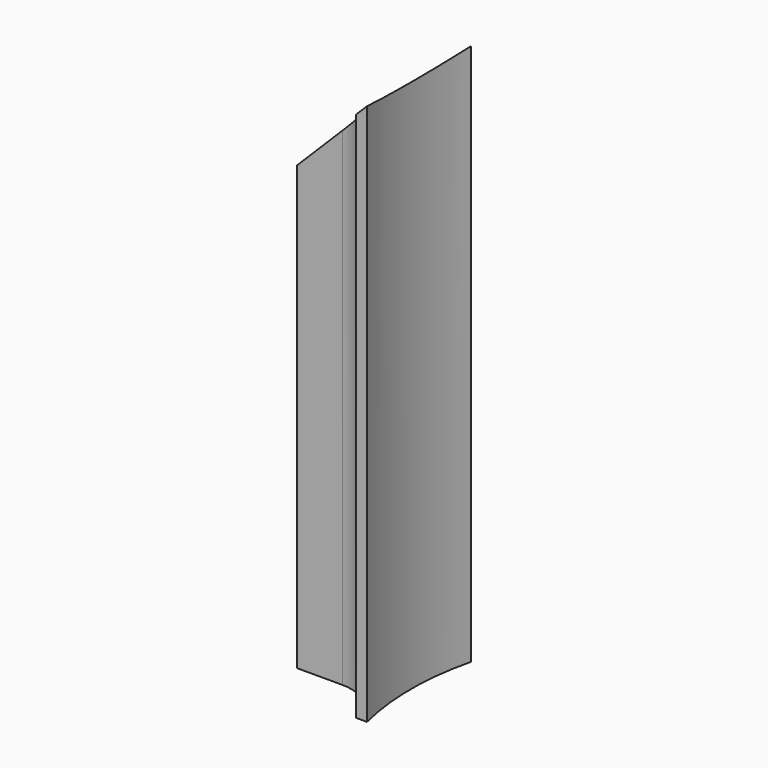
from build123d import *

# Parameters (mm, degrees)
PAD003_DEPTH            = 50
FILLET002_R             = 4
POCKET002_DEPTH         = 8.601
POCKET002_DEPTH_BACK    = 3.401
BODY004_PLACEMENT_ANGLE = 180


with BuildPart() as part:
    # Sketch006 → Pad003 (new body)
    with BuildSketch(Plane.XY):
        with BuildLine():
            ThreePointArc((24.269322199, -6), (25, 0), (24.269322199, 6))
            Line((24.269322199, 6), (25.2982212813, 6))
            ThreePointArc((25.8696733648, 2.6), (25.6403658443, 4.3094824946), (25.2982212813, 6))
            Line((25.8696733648, 2.6), (33.4516540126, 2.6))
            Line((33.4516540126, 2.6), (33.4516540126, 1.6))
            Line((33.4516540126, 1.6), (26.4516540126, 1.6))
            Line((26.4516540126, 1.6), (26.4516540126, -1.6))
            Line((26.4516540126, -1.6), (33.4516540126, -1.6))
            Line((33.4516540126, -1.6), (33.4516540126, -2.6))
            Line((33.4516540126, -2.6), (25.8696733648, -2.6))
            ThreePointArc((25.2982212813, -6), (25.6403658443, -4.3094824946), (25.8696733648, -2.6))
            Line((24.269322199, -6), (25.2982212813, -6))
        make_face()
    extrude(amount=PAD003_DEPTH)

    # Fillet002
    fillet002_edges = [part.edges().sort_by_distance(p)[0] for p in [
        (25.869673, -2.6, 25),
        (25.869673, 2.6, 25),
    ]]
    fillet(fillet002_edges, radius=FILLET002_R)

    # Sketch007 (on Face15 of Fillet002) → Pocket002 (cut, two sides)
    with BuildSketch(Plane.XZ.offset(2.6)) as pocket002_sk:
        Polygon((33.4516540126, 50), (33.4516540126, 40.8176681865), (24.269322199, 50), align=None)
    extrude(amount=-POCKET002_DEPTH, mode=Mode.SUBTRACT)
    extrude(pocket002_sk.sketch, amount=POCKET002_DEPTH_BACK, mode=Mode.SUBTRACT)


with BuildPart() as part_1:
    # Body004 placement: moved
    add(part.part.rotate(Axis((0, 0, 0), (0, 0, 1)), BODY004_PLACEMENT_ANGLE))


solid = part_1.part
